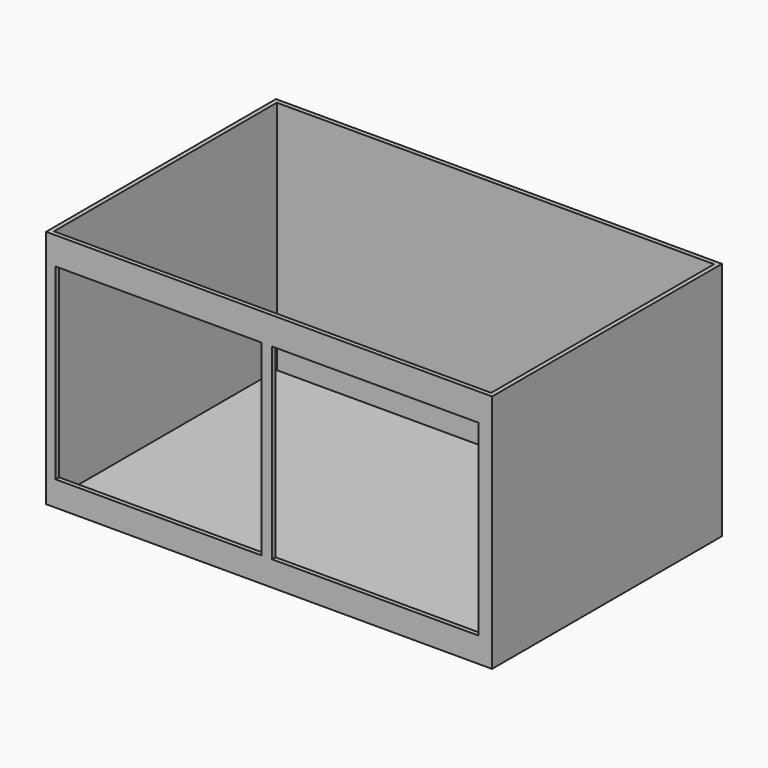
from build123d import *

# Parameters (mm, degrees)
SKETCH_W        = 357
SKETCH_H        = 197
PAD_DEPTH       = 230
SKETCH001_W     = 357
SKETCH001_H     = 230
POCKET_DEPTH    = 5
SKETCH002_W     = 350
SKETCH002_H     = 223
POCKET001_DEPTH = 192
SKETCH003_W     = 165
SKETCH003_H     = 150
POCKET002_DEPTH = 10


with BuildPart() as part:
    # Sketch → Pad (new body)
    with BuildSketch(Plane.XZ):
        with Locations((178.5, 98.5)):
            Rectangle(SKETCH_W, SKETCH_H)
    extrude(amount=PAD_DEPTH)

    # Sketch001 → Pocket (cut)
    with BuildSketch(Plane.XY.offset(192)):
        with Locations((178.5, -115)):
            Rectangle(SKETCH001_W, SKETCH001_H)
    extrude(amount=POCKET_DEPTH, mode=Mode.SUBTRACT)

    # Sketch002 → Pocket001 (cut)
    with BuildSketch(Plane(origin=(3.5, -3.5, 3.5), x_dir=(1, 0, 0), z_dir=(0, 0, 1))):
        with Locations((175, -111.5)):
            Rectangle(SKETCH002_W, SKETCH002_H)
    extrude(amount=POCKET001_DEPTH, mode=Mode.SUBTRACT)

    # Sketch003 → Pocket002 (cut)
    with BuildSketch(Plane(origin=(7.5, -220, 20), x_dir=(1, 0, 0), z_dir=(0, -1, 0))):
        with Locations((82.5, 75)):
            Rectangle(SKETCH003_W, SKETCH003_H)
        with Locations((255.997886, 75)):
            Rectangle(SKETCH003_W, SKETCH003_H)
    extrude(amount=POCKET002_DEPTH, mode=Mode.SUBTRACT)


solid = part.part
